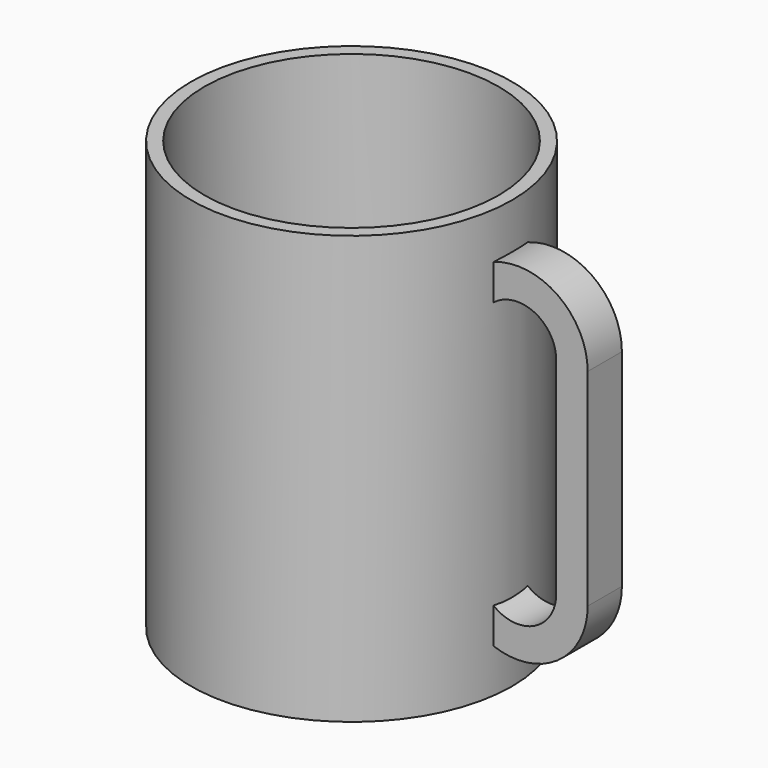
from build123d import *

# Parameters (mm, degrees)
F0_R          = 38.1
F1_DEPTH      = 50.8
F1_DEPTH_BACK = 50.8
F2_R          = 34.925
F3_DEPTH      = 99.06
F5_DEPTH      = 5.08
F5_DEPTH_BACK = 5.08
F6_R          = 12.7


with BuildPart() as f1:
    # F0 (on Top) → F1 (new body, two sides)
    with BuildSketch(Plane.XY) as f1_sk:
        Circle(F0_R)
    extrude(amount=F1_DEPTH)
    extrude(f1_sk.sketch, amount=-F1_DEPTH_BACK)

    # F2 (on face) → F3 (cut)
    with BuildSketch(Plane.XY.offset(50.8)):
        Circle(F2_R)
    extrude(amount=-F3_DEPTH, mode=Mode.SUBTRACT)

    # F4 (on Front) → F5 (join, two sides)
    with BuildSketch(Plane.XZ) as f5_sk:
        with BuildLine():
            Line((60.119201, -24.80282), (60.119201, 24.239462))
            ThreePointArc((60.119201, 24.239462), (52.108585, 38.460985), (35.794442, 38.981002))
            Line((35.794442, 38.981002), (35.794442, 29.205198))
            ThreePointArc((35.794442, 29.205198), (46.078305, 33.024621), (52.648449, 24.239462))
            Line((52.648449, 24.239462), (52.648449, -24.80282))
            ThreePointArc((52.648449, -24.80282), (46.078305, -33.58798), (35.794442, -29.768556))
            Line((35.794442, -29.768556), (35.794442, -39.54436))
            ThreePointArc((35.794442, -39.54436), (52.108585, -39.024344), (60.119201, -24.80282))
        make_face()
    extrude(amount=F5_DEPTH)
    extrude(f5_sk.sketch, amount=-F5_DEPTH_BACK)

    # F6
    f6_edges = [f1.edges().sort_by_distance(p)[0] for p in [
        (-34.925, 0, -48.26),
    ]]
    fillet(f6_edges, radius=F6_R)


solid = f1.part
